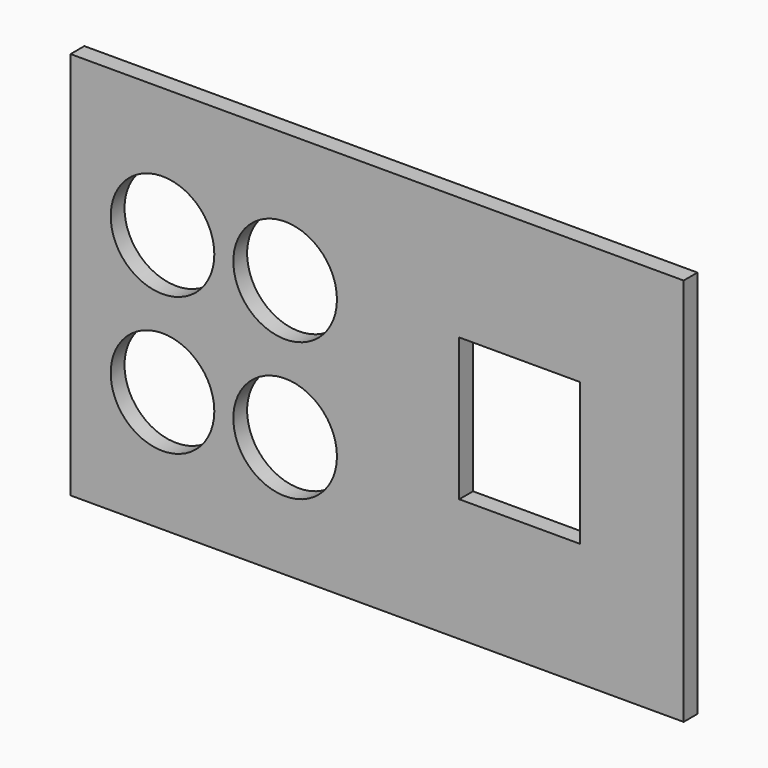
from build123d import *

# Parameters (mm, degrees)
F0_W     = 142
F0_H     = 90
F1_DEPTH = 4
F2_R     = 12
F2_W     = 28
F2_H     = 33
F3_DEPTH = 4.001


with BuildPart() as f1:
    # F0 (on Front) → F1 (new body)
    with BuildSketch(Plane.XZ):
        with Locations((-3.875109, 1.371553)):
            Rectangle(F0_W, F0_H)
    extrude(amount=F1_DEPTH)

    # F2 (on face) → F3 (cut, through all)
    with BuildSketch(Plane.XZ.offset(4)):
        with Locations((-53.575109, 16.371553)):
            Circle(F2_R)
        with Locations((-25.175109, 16.371553)):
            Circle(F2_R)
        with Locations((-53.575109, -15.628447)):
            Circle(F2_R)
        with Locations((-25.175109, -15.628447)):
            Circle(F2_R)
        with Locations((29.150674, 1.371553)):
            Rectangle(F2_W, F2_H)
    extrude(amount=-F3_DEPTH, mode=Mode.SUBTRACT)


solid = f1.part
